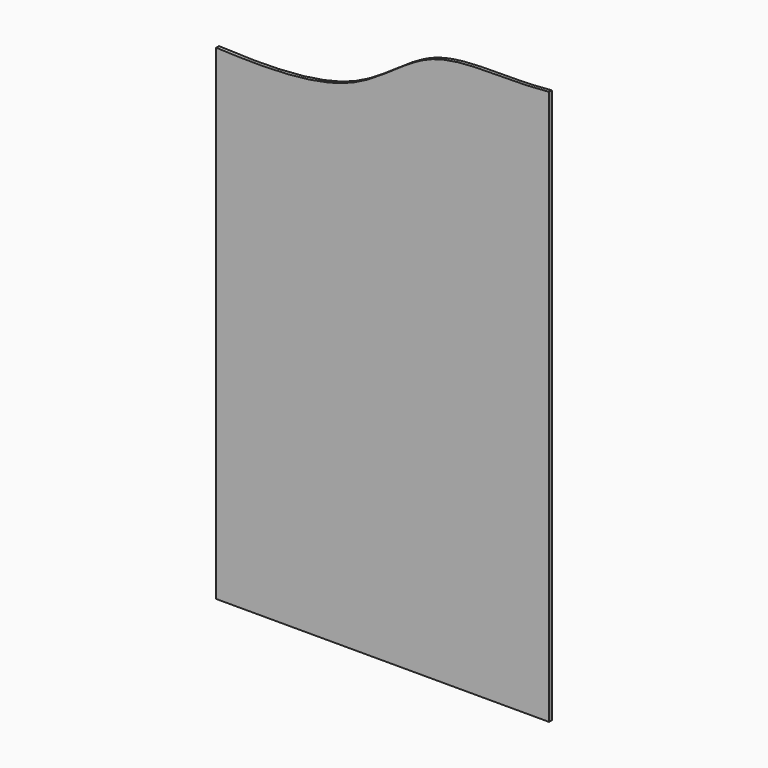
from build123d import *

# Parameters (mm, degrees)
F0_W     = 609.6
F0_H     = 1219.2
F1_DEPTH = 6.35
F3_DEPTH = 6.351


with BuildPart() as f1:
    # F0 (on Front) → F1 (new body)
    with BuildSketch(Plane.XZ):
        Rectangle(F0_W, F0_H)
    extrude(amount=F1_DEPTH)

    # F2 (on face) → F3 (cut, through all)
    with BuildSketch(Plane.XZ.offset(6.35)):
        with BuildLine():
            add(Edge.make_bspline(
                [(304.8, 406.4), (221.0815361118, 397.8073648858), (84.1824671856, 421.633281102), (-48.5467625093, 271.9566788926), (-230.0029036924, 275.9705739058), (-304.8, 279.4)],
                knots=[0, 0, 0, 0, 0.3356143347, 0.6406440495, 1, 1, 1, 1], degree=3))
            Line((304.8, 406.4), (304.8, 609.6))
            Line((304.8, 609.6), (-304.8, 609.6))
            Line((-304.8, 609.6), (-304.8, 279.4))
        make_face()
    extrude(amount=-F3_DEPTH, mode=Mode.SUBTRACT)


solid = f1.part
